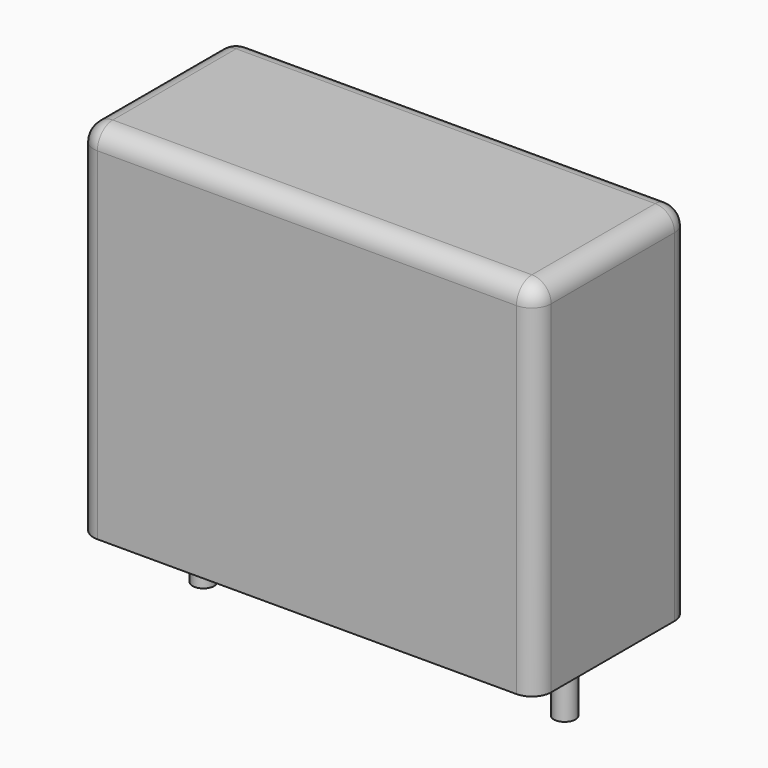
from build123d import *

# Parameters (mm, degrees)
SKETCH_W     = 19
SKETCH_H     = 8
PAD_DEPTH    = 15
FILLET_R     = 0.8
SKETCH001_R  = 0.45
PAD001_DEPTH = 3.2


with BuildPart() as fillet_body:
    # Sketch → Pad (new body)
    with BuildSketch(Plane.XY.offset(0.1)):
        with Locations((7.5, 0)):
            Rectangle(SKETCH_W, SKETCH_H)
    extrude(amount=PAD_DEPTH)

    # Fillet
    fillet_edges = [fillet_body.edges().sort_by_distance(p)[0] for p in [
        (-2, 0, 15.1),
        (-2, -4, 7.6),
        (7.5, -4, 15.1),
        (17, -4, 7.6),
        (17, 0, 15.1),
        (17, 4, 7.6),
        (7.5, 4, 15.1),
        (-2, 4, 7.6),
    ]]
    fillet(fillet_edges, radius=FILLET_R)


with BuildPart() as pad001:
    # Sketch001 → Pad001 (new body)
    with BuildSketch(Plane.XY.offset(0.5)):
        Circle(SKETCH001_R)
        with Locations((15, 0)):
            Circle(SKETCH001_R)
    extrude(amount=-PAD001_DEPTH)


solid = Compound([fillet_body.part, pad001.part])
